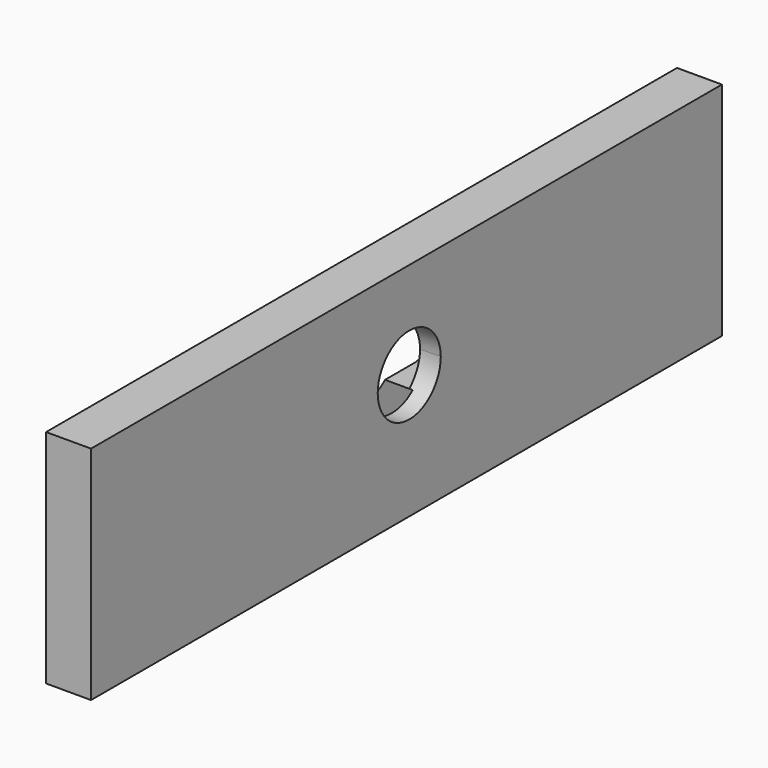
from build123d import *

# Parameters (mm, degrees)
PAD022_DEPTH            = 10
BODY022_PLACEMENT_ANGLE = 90
BOX012_W                = 3
BOX012_H                = 114
BOX012_DEPTH            = 32
PAD021_DEPTH            = 5
BODY021_PLACEMENT_ANGLE = 90
BOX011_W                = 4
BOX011_H                = 114
BOX011_DEPTH            = 32


with BuildPart() as lever007:
    # Sketch022 → Pad022 (new body)
    with BuildSketch(Plane.XY):
        with BuildLine():
            ThreePointArc((0, 5.69984), (-5.657274, 0), (0, -5.69984))
            ThreePointArc((0, -5.69984), (5.657274, 0), (0, 5.69984))
        make_face()
    extrude(amount=PAD022_DEPTH)


with BuildPart() as lever007_1:
    # Body022 placement: moved
    add(lever007.part.moved(Location((31, 29, 18))).rotate(Axis((31, 29, 18), (0, -1, 0)), BODY022_PLACEMENT_ANGLE))


with BuildPart() as cut029:
    # Box012 → Box012 (new body)
    with BuildSketch(Plane(origin=(23.5, -28.5, 0), x_dir=(1, 0, 0), z_dir=(0, 0, 1))):
        with Locations((1.5, 57)):
            Rectangle(BOX012_W, BOX012_H)
    extrude(amount=BOX012_DEPTH)

    # Cut029: cut Lever007
    add(lever007_1.part, mode=Mode.SUBTRACT)


with BuildPart() as lever006:
    # Sketch021 → Pad021 (new body)
    with BuildSketch(Plane.XY):
        with BuildLine():
            Line((-4.25, 3.75), (-4.25, 9.25))
            Line((-4.25, 9.25), (-2.65, 17.292388))
            ThreePointArc((2.65, 17.292388), (0, 20), (-2.65, 17.292388))
            Line((2.65, 17.292388), (4.25, 9.25))
            Line((4.25, 3.75), (4.25, 9.25))
            ThreePointArc((4.25, -3.75), (5.657274, 0), (4.25, 3.75))
            Line((4.25, -3.75), (4.25, -9.25))
            Line((2.65, -17.292388), (4.25, -9.25))
            ThreePointArc((-2.65, -17.292388), (0, -20), (2.65, -17.292388))
            Line((-4.25, -9.25), (-2.65, -17.292388))
            Line((-4.25, -3.75), (-4.25, -9.25))
            ThreePointArc((-4.25, 3.75), (-5.657274, 0), (-4.25, -3.75))
        make_face()
    extrude(amount=PAD021_DEPTH)


with BuildPart() as lever006_1:
    # Body021 placement: moved
    add(lever006.part.moved(Location((25, 29, 18))).rotate(Axis((25, 29, 18), (0, -1, 0)), BODY021_PLACEMENT_ANGLE))


with BuildPart() as fusion045:
    # Box011 → Box011 (new body)
    with BuildSketch(Plane(origin=(21, -28.5, 0), x_dir=(1, 0, 0), z_dir=(0, 0, 1))):
        with Locations((2, 57)):
            Rectangle(BOX011_W, BOX011_H)
    extrude(amount=BOX011_DEPTH)

    # Cut030: cut Lever006
    add(lever006_1.part, mode=Mode.SUBTRACT)


with BuildPart() as fusion045_1:
    # Cut030 placement: moved
    add(fusion045.part.moved(Location((-1, 0, 0))))

    # Fusion045: union Cut029
    add(cut029.part)


solid = fusion045_1.part
